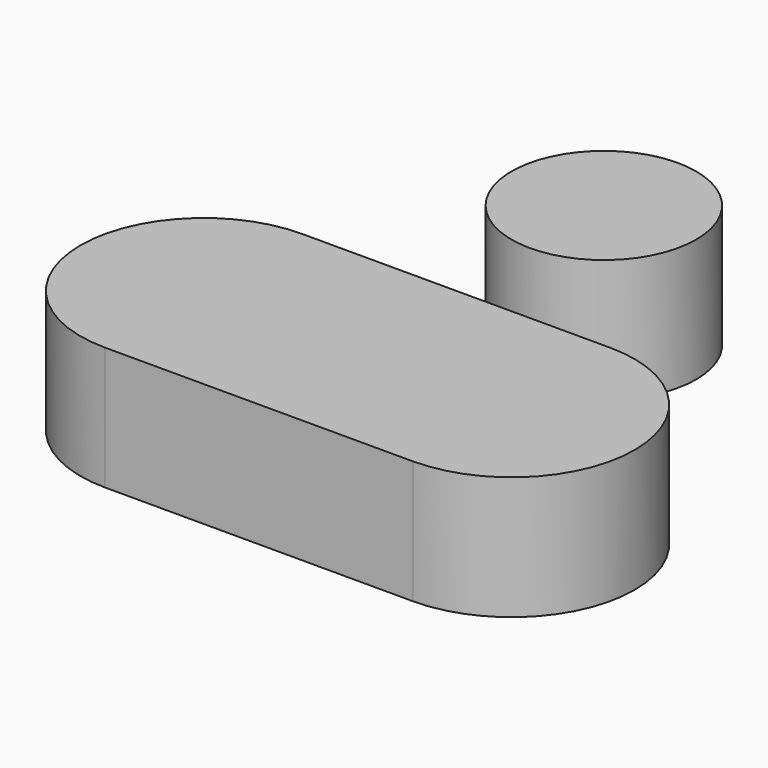
from build123d import *

# Parameters (mm, degrees)
PAD_DEPTH    = 2
SKETCH002_R  = 1.5
PAD001_DEPTH = 2


with BuildPart() as body:
    # Sketch001 → Pad (new body)
    with BuildSketch(Plane.XY):
        with BuildLine():
            ThreePointArc((-2.5, 2), (-4.5, 0), (-2.5, -2))
            Line((-2.5, -2), (2.5, -2))
            ThreePointArc((2.5, -2), (4.5, 0), (2.5, 2))
            Line((-2.5, 2), (2.5, 2))
        make_face()
    extrude(amount=PAD_DEPTH)


with BuildPart() as body001:
    # Sketch002 → Pad001 (new body)
    with BuildSketch(Plane.XY):
        Circle(SKETCH002_R)
    extrude(amount=PAD001_DEPTH)


with BuildPart() as body001_1:
    # Body001 placement: moved
    add(body001.part.moved(Location((0, 5, 0))))


solid = Compound([body.part, body001_1.part])
